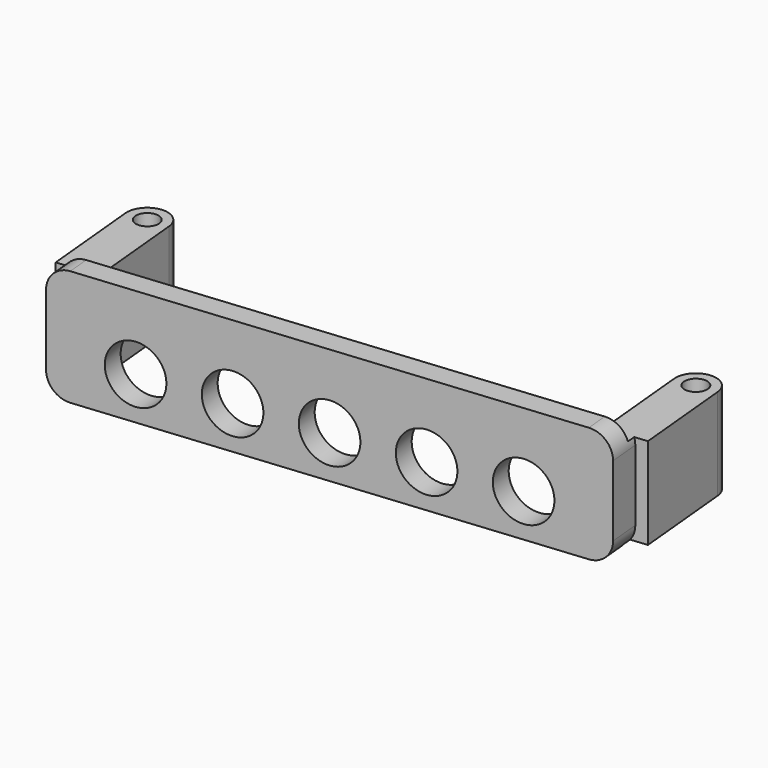
from build123d import *

# Parameters (mm, degrees)
F1_DEPTH = 12.8
F3_DEPTH = 3.5
F4_W     = 18.9070843756
F4_H     = 1.75
F4_W_2   = 22.2780885547
F4_H_2   = 0.95
F5_DEPTH = 62.4295319173
F7_D     = 2.5
F9_D     = 6.35


with BuildPart() as f1:
    # F0 (on Top) → F1 (new body)
    with BuildSketch(Plane.XY):
        with BuildLine():
            ThreePointArc((-27.292256768, 11.945013416), (-29.7470947197, 13.9695554954), (-31.771636799, 11.5147175437))
            Line((-31.771636799, 11.5147175437), (-30.385127877, -2.918840334))
            Line((-30.385127877, -2.918840334), (30.385127877, 2.918840334))
            Line((30.385127877, 2.918840334), (28.9986189551, 17.3523982117))
            ThreePointArc((28.9986189551, 17.3523982117), (26.5437810034, 19.3769402911), (24.5192389241, 16.9221023394))
            Line((24.5192389241, 16.9221023394), (25.6666945836, 4.9770889233))
            Line((25.6666945836, 4.9770889233), (-26.1448011084, 0))
            Line((-26.1448011084, 0), (-27.292256768, 11.945013416))
        make_face()
    extrude(amount=F1_DEPTH)

    # F2 (on face) → F3 (cut)
    with BuildSketch(Plane(origin=(0, 0, 0), x_dir=(0.9954177847, 0.095621305, 0), z_dir=(0.095621305, -0.9954177847, 0))):
        with BuildLine():
            ThreePointArc((-29.225, 10.3), (-28.492766953, 12.067766953), (-26.725, 12.8))
            Line((-26.725, 12.8), (-30.525, 12.8))
            Line((-30.525, 12.8), (-30.525, 0))
            Line((-30.525, 0), (-26.725, 0))
            ThreePointArc((-26.725, 0), (-28.492766953, 0.732233047), (-29.225, 2.5))
            Line((-29.225, 2.5), (-29.225, 10.3))
        make_face()
        with BuildLine():
            ThreePointArc((-29.225, 10.3), (-28.492766953, 12.067766953), (-26.725, 12.8))
            Line((-26.725, 12.8), (-30.525, 12.8))
            Line((-30.525, 12.8), (-30.525, 0))
            Line((-30.525, 0), (-26.725, 0))
            ThreePointArc((-26.725, 0), (-28.492766953, 0.732233047), (-29.225, 2.5))
            Line((-29.225, 2.5), (-29.225, 10.3))
        make_face()
        with BuildLine():
            Line((30.525, 12.8), (26.725, 12.8))
            ThreePointArc((26.725, 12.8), (28.492766953, 12.067766953), (29.225, 10.3))
            Line((29.225, 10.3), (29.225, 2.5))
            ThreePointArc((29.225, 2.5), (28.492766953, 0.732233047), (26.725, 0))
            Line((26.725, 0), (30.525, 0))
            Line((30.525, 0), (30.525, 12.8))
        make_face()
        with BuildLine():
            Line((30.525, 12.8), (26.725, 12.8))
            ThreePointArc((26.725, 12.8), (28.492766953, 12.067766953), (29.225, 10.3))
            Line((29.225, 10.3), (29.225, 2.5))
            ThreePointArc((29.225, 2.5), (28.492766953, 0.732233047), (26.725, 0))
            Line((26.725, 0), (30.525, 0))
            Line((30.525, 0), (30.525, 12.8))
        make_face()
    extrude(amount=-F3_DEPTH, mode=Mode.SUBTRACT)

    # F4 (on face) → F5 (cut, through all)
    with BuildSketch(Plane(origin=(30.385127877, 2.918840334, 0), x_dir=(-0.095621305, 0.9954177847, 0), z_dir=(0.9954177847, 0.095621305, 0))):
        with Locations((11.9535421878, 11.925)):
            Rectangle(F4_W, F4_H)
        with Locations((13.6390442774, 0.475)):
            Rectangle(F4_W_2, F4_H_2)
    extrude(amount=-F5_DEPTH, mode=Mode.SUBTRACT)

    # F7 (through all)
    with Locations(Plane(origin=(0, 0, 0.95), x_dir=(1, 0, 0), z_dir=(0, 0, -1))):
        with Locations((26.7589289396, -17.1372502756), (-29.5319467835, -11.7298654799)):
            Hole(F7_D / 2)

    # F9 (through all)
    with Locations(Plane(origin=(0, 0, 0), x_dir=(0.9954177847, 0.095621305, 0), z_dir=(0.095621305, -0.9954177847, 0))):
        with Locations((-20, 4.69), (-10, 4.69), (0, 4.69), (10, 4.69), (20, 4.69)):
            Hole(F9_D / 2)


solid = f1.part
